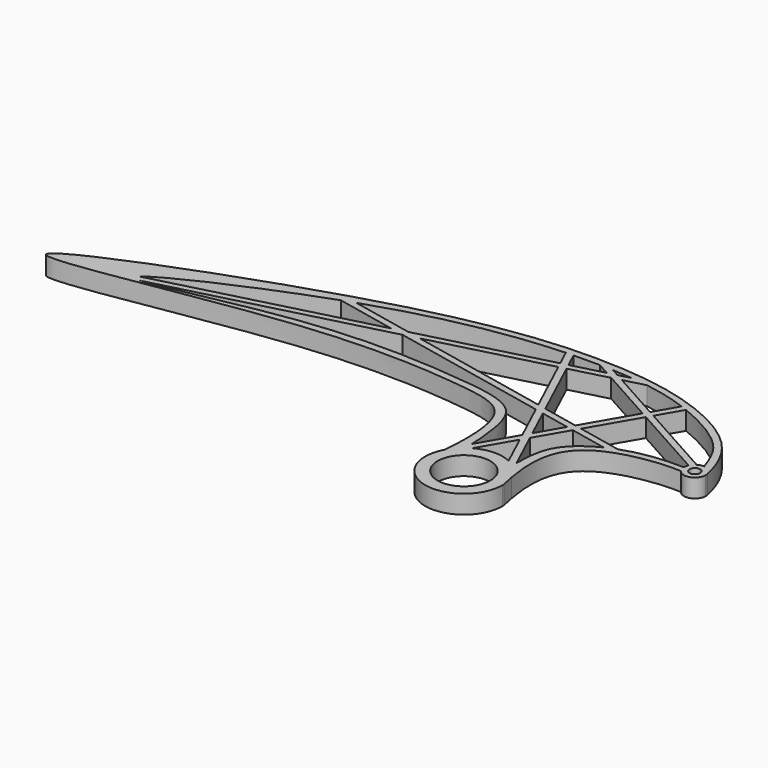
from build123d import *

# Parameters (mm, degrees)
F0_R     = 2.8569030584
F0_R_2   = 0.5687620191
F1_DEPTH = 2


with BuildPart() as f1:
    # F0 (on Top) → F1 (new body)
    with BuildSketch(Plane.XY):
        with BuildLine():
            ThreePointArc((18.6143453266, -6.9022281795), (21.2623513874, -12.9745118473), (26.4929594828, -8.9093791321))
            ThreePointArc((26.4929594828, -8.9093791321), (26.4921452233, -8.8267296466), (26.4897027608, -8.7441122463))
            add(Edge.make_bspline(
                [(26.4897027608, -8.7441122463), (26.3808069457, -8.2779284114), (26.2832084192, -7.8190455027), (26.19998991, -7.3691939883)],
                knots=[0, 0, 0, 0, 0.0629366571, 0.0629366571, 0.0629366571, 0.0629366571], degree=3))
            ThreePointArc((26.19998991, -7.3691939883), (25.6624241737, -6.4037126078), (24.8913964685, -5.6121019113))
            ThreePointArc((24.8913964685, -5.6121019113), (24.5107445609, -5.3454603018), (24.1029334844, -5.1225617856))
            ThreePointArc((24.1029334844, -5.1225617856), (22.1699046652, -4.7163574074), (20.2652718009, -5.2397846378))
            ThreePointArc((20.2652718009, -5.2397846378), (19.9718559358, -5.4183947487), (19.6940368733, -5.6204120999))
            ThreePointArc((19.6940368733, -5.6204120999), (19.0895268698, -6.2068525575), (18.6143453266, -6.9022281795))
        make_face()
        with Locations((22.2979821265, -8.9093791321)):
            Circle(F0_R, mode=Mode.SUBTRACT)
        with BuildLine():
            add(Edge.make_bspline(
                [(18.6143453266, -6.9022281795), (18.7121831157, -5.6519642111), (18.8979663666, -3.0751767638), (18.0521238103, 2.3080731901), (10.6753603097, 3.40769663), (-4.5239997149, 4.4290592775), (-45.1224210105, -4.4600882211), (0.9257955515, 13.3206958024), (18.8373683498, 14.6388730283), (28.7263227344, 13.195610608), (36.1515053478, 9.6372506878), (38.2203703609, 5.8728841517), (38.7144933658, 3.5537192718)],
                knots=[0, 0, 0, 0, 0.0578860731, 0.1203493189, 0.1908257785, 0.3170047365, 0.4585873736, 0.6204050209, 0.7563034386, 0.8444489417, 0.9255451565, 0.9982830918, 0.9982830918, 0.9982830918, 0.9982830918], degree=3))
            ThreePointArc((18.6143453266, -6.9022281795), (19.0895268698, -6.2068525575), (19.6940368733, -5.6204120999))
            add(Edge.make_bspline(
                [(19.6940368733, -5.6204120999), (19.7294126967, -5.2736396873), (19.7463495774, -4.9668373505), (19.7494853041, -4.6782903931)],
                knots=[0, 0, 0, 0, 0.0160893834, 0.0160893834, 0.0160893834, 0.0160893834], degree=3))
            add(Edge.make_bspline(
                [(19.7494853041, -4.6782903931), (19.7568415573, -4.0013741193), (19.5650467233, -2.3896691142), (19.0069317431, 2.9159053592), (11.1000637201, 4.2147569379), (-3.6817146158, 5.1232951288), (-18.6657590106, 1.3095300514), (-20.8970234036, 1.144973392)],
                knots=[0.0160893834, 0.0160893834, 0.0160893834, 0.0160893834, 0.0538342467, 0.1216211169, 0.2016167055, 0.3374433435, 0.4368786852, 0.4368786852, 0.4368786852, 0.4368786852], degree=3))
            add(Edge.make_bspline(
                [(-20.8970234036, 1.144973392), (-21.4080348071, 1.1072860924), (-21.9060180106, 1.171631934), (-21.6308491069, 1.5276157978), (-21.4077144328, 1.7122718479)],
                knots=[0.4368786852, 0.4368786852, 0.4368786852, 0.4368786852, 0.4596516895, 0.4752092971, 0.4752092971, 0.4752092971, 0.4752092971], degree=3))
            add(Edge.make_bspline(
                [(-21.4077144328, 1.7122718479), (-19.809888409, 3.0345595806), (-12.4972485391, 6.4166302378), (-5.314808763, 8.967111988)],
                knots=[0.4752092971, 0.4752092971, 0.4752092971, 0.4752092971, 0.58661444, 0.58661444, 0.58661444, 0.58661444], degree=3))
            add(Edge.make_bspline(
                [(-5.314808763, 8.967111988), (-4.883196395, 9.1203773828), (-4.4520541971, 9.2706397974), (-4.0226505547, 9.4172717956)],
                knots=[0.58661444, 0.58661444, 0.58661444, 0.58661444, 0.5933090785, 0.5933090785, 0.5933090785, 0.5933090785], degree=3))
            add(Edge.make_bspline(
                [(-4.0226505547, 9.4172717956), (-3.0974153373, 9.7332194853), (4.6848771922, 12.2710727969), (10.972477505, 13.1434869265), (15.5230635358, 13.3419158257)],
                knots=[0.5933090785, 0.5933090785, 0.5933090785, 0.5933090785, 0.6077340033, 0.7157070746, 0.7157070746, 0.7157070746, 0.7157070746], degree=3))
            add(Edge.make_bspline(
                [(15.5230635358, 13.3419158257), (15.798374902, 13.3539208139), (16.0700406201, 13.3638351671), (16.338097703, 13.3718194012)],
                knots=[0.7157070746, 0.7157070746, 0.7157070746, 0.7157070746, 0.7222394671, 0.7222394671, 0.7222394671, 0.7222394671], degree=3))
            add(Edge.make_bspline(
                [(16.338097703, 13.3718194012), (17.3330718747, 13.4014552784), (18.2783282344, 13.404499025), (19.1757595971, 13.3891592895)],
                knots=[0.7222394671, 0.7222394671, 0.7222394671, 0.7222394671, 0.7464863986, 0.7464863986, 0.7464863986, 0.7464863986], degree=3))
            add(Edge.make_bspline(
                [(19.1757595971, 13.3891592895), (19.3952832417, 13.3854069862), (19.8941255144, 13.3742350784), (20.3779449816, 13.3578689943), (20.6472598116, 13.3467602351)],
                knots=[0.7464863986, 0.7464863986, 0.7464863986, 0.7464863986, 0.7524175205, 0.7601422048, 0.7601422048, 0.7601422048, 0.7601422048], degree=3))
            add(Edge.make_bspline(
                [(20.6472598116, 13.3467602351), (21.3824514921, 13.3164348819), (22.0850961027, 13.2723159936), (22.7641356867, 13.2105606533)],
                knots=[0.7601422048, 0.7601422048, 0.7601422048, 0.7601422048, 0.7812295083, 0.7812295083, 0.7812295083, 0.7812295083], degree=3))
            add(Edge.make_bspline(
                [(22.7641356867, 13.2105606533), (23.3956405969, 13.1531283598), (24.0067296425, 13.0804423909), (24.6045953536, 12.9894116975)],
                knots=[0.7812295083, 0.7812295083, 0.7812295083, 0.7812295083, 0.8008406416, 0.8008406416, 0.8008406416, 0.8008406416], degree=3))
            add(Edge.make_bspline(
                [(24.6045953536, 12.9894116975), (25.9703937056, 12.7814560164), (27.5054305947, 12.4219692547), (29.0639236491, 11.8767009203), (29.3053994879, 11.7879962218)],
                knots=[0.8008406416, 0.8008406416, 0.8008406416, 0.8008406416, 0.8456414271, 0.853872283, 0.853872283, 0.853872283, 0.853872283], degree=3))
            add(Edge.make_bspline(
                [(29.3053994879, 11.7879962218), (29.5354743503, 11.7034796035), (29.7651748108, 11.6152632358), (29.9936554206, 11.5236929218)],
                knots=[0.853872283, 0.853872283, 0.853872283, 0.853872283, 0.8617145294, 0.8617145294, 0.8617145294, 0.8617145294], degree=3))
            add(Edge.make_bspline(
                [(29.9936554206, 11.5236929218), (32.0240140196, 10.7099670895), (35.8617576541, 8.5697192395), (36.9841513063, 6.3420919269), (37.6515627816, 4.4083440595)],
                knots=[0.8617145294, 0.8617145294, 0.8617145294, 0.8617145294, 0.9314034739, 1, 1, 1, 1], degree=3))
            ThreePointArc((37.6515627816, 4.4083440595), (38.3193913399, 4.1506320427), (38.7144933658, 3.5537192718))
        make_face()
        with BuildLine():
            add(Edge.make_bspline(
                [(38.7144933658, 3.5537192718), (38.7261566587, 3.4989776405), (38.7375502322, 3.443935568), (38.7486755157, 3.3885903794)],
                knots=[0.9982830918, 0.9982830918, 0.9982830918, 0.9982830918, 1, 1, 1, 1], degree=3))
            ThreePointArc((38.7144933658, 3.5537192718), (38.3193913399, 4.1506320427), (37.6515627816, 4.4083440595))
            ThreePointArc((37.6515627816, 4.4083440595), (37.2987617582, 4.3759171964), (36.9715830014, 4.2399976441))
            ThreePointArc((36.9715830014, 4.2399976441), (36.7011555962, 4.0145872003), (36.5094670744, 3.7192969019))
            ThreePointArc((36.5094670744, 3.7192969019), (36.4285469243, 3.4703739206), (36.4046261669, 3.2097237362))
            ThreePointArc((36.4046261669, 3.2097237362), (36.4708755476, 2.8431002419), (36.6483659594, 2.5155351021))
            ThreePointArc((36.6483659594, 2.5155351021), (37.9606538319, 2.1184879035), (38.7589857096, 3.2331233378))
            ThreePointArc((38.7589857096, 3.2331233378), (38.7564053333, 3.3110276078), (38.7486755157, 3.3885903794))
        make_face()
        with Locations((37.5816896558, 3.2331233378)):
            Circle(F0_R_2, mode=Mode.SUBTRACT)
        with BuildLine():
            ThreePointArc((24.8913964685, -5.6121019113), (25.6624241737, -6.4037126078), (26.19998991, -7.3691939883))
            add(Edge.make_bspline(
                [(26.19998991, -7.3691939883), (25.6353184944, -4.3167685824), (25.8490612072, 1.4686443008), (33.8876455579, 2.6489840198), (36.6483659594, 2.5155351021)],
                knots=[0.0629366571, 0.0629366571, 0.0629366571, 0.0629366571, 0.4899874614, 1, 1, 1, 1], degree=3))
            ThreePointArc((36.6483659594, 2.5155351021), (36.4708755476, 2.8431002419), (36.4046261669, 3.2097237362))
            add(Edge.make_bspline(
                [(29.9917272827, 2.291704047), (31.6817230026, 2.9152205), (33.8111267707, 3.2897124254), (36.4046261669, 3.2097237362)],
                knots=[0.6856732256, 0.6856732256, 0.6856732256, 0.6856732256, 1, 1, 1, 1], degree=3))
            add(Edge.make_bspline(
                [(28.86096562, 1.8077337718), (29.2132904964, 1.9812830351), (29.5901006, 2.1435256572), (29.9917272827, 2.291704047)],
                knots=[0.6109736165, 0.6109736165, 0.6109736165, 0.6109736165, 0.6856732256, 0.6856732256, 0.6856732256, 0.6856732256], degree=3))
            add(Edge.make_bspline(
                [(24.8814697385, -5.0141121595), (24.8706036434, -1.9969336829), (25.7527692295, -0.1242736331), (28.0879125784, 1.4269409443), (28.86096562, 1.8077337718)],
                knots=[0.026801104, 0.026801104, 0.026801104, 0.026801104, 0.4470715934, 0.6109736165, 0.6109736165, 0.6109736165, 0.6109736165], degree=3))
            add(Edge.make_bspline(
                [(24.8913964685, -5.6121019113), (24.8854807984, -5.4057208357), (24.8821626812, -5.2065208967), (24.8814697385, -5.0141121595)],
                knots=[0, 0, 0, 0, 0.026801104, 0.026801104, 0.026801104, 0.026801104], degree=3))
        make_face()
        with BuildLine():
            add(Edge.make_bspline(
                [(19.6940368733, -5.6204120999), (19.7294126967, -5.2736396873), (19.7463495774, -4.9668373505), (19.7494853041, -4.6782903931)],
                knots=[0, 0, 0, 0, 0.0160893834, 0.0160893834, 0.0160893834, 0.0160893834], degree=3))
            ThreePointArc((19.6940368733, -5.6204120999), (19.9718559358, -5.4183947487), (20.2652718009, -5.2397846378))
            Line((20.2652718009, -5.2397846378), (22.4267325344, -1.5152606144))
            Line((22.4267325344, -1.5152606144), (22.0524900201, -0.7098646623))
            Line((22.0524900201, -0.7098646623), (19.7494853041, -4.6782903931))
        make_face()
        with BuildLine():
            ThreePointArc((24.1029334844, -5.1225617856), (24.5107445609, -5.3454603018), (24.8913964685, -5.6121019113))
            add(Edge.make_bspline(
                [(24.8913964685, -5.6121019113), (24.8854807984, -5.4057208357), (24.8821626812, -5.2065208967), (24.8814697385, -5.0141121595)],
                knots=[0, 0, 0, 0, 0.026801104, 0.026801104, 0.026801104, 0.026801104], degree=3))
            Line((24.8814697385, -5.0141121595), (22.8870711465, -0.7220275043))
            Line((22.8870711465, -0.7220275043), (22.4267325344, -1.5152606144))
            Line((22.4267325344, -1.5152606144), (24.1029334844, -5.1225617856))
        make_face()
        Polygon((22.0524900201, -0.7098646623), (22.4267325344, -1.5152606144), (22.8870711465, -0.7220275043), (22.5128286322, 0.0833684478), align=None)
        Polygon((22.5128286322, 0.0833684478), (22.8870711465, -0.7220275043), (24.8435749107, 2.6493246369), (24.0931642157, 2.8065258732), align=None)
        with BuildLine():
            ThreePointArc((36.5094670744, 3.7192969019), (36.7011555962, 4.0145872003), (36.9715830014, 4.2399976441))
            Line((36.9715830014, 4.2399976441), (28.5070563563, 8.9620577079))
            Line((28.5070563563, 8.9620577079), (28.1657615677, 8.3739551254))
            Line((28.1657615677, 8.3739551254), (36.5094670744, 3.7192969019))
        make_face()
        Polygon((28.1657615677, 8.3739551254), (28.5070563563, 8.9620577079), (27.8712552701, 9.3167486485), (27.5299604815, 8.728646066), align=None)
        with BuildLine():
            Line((28.5070563563, 8.9620577079), (29.9936554206, 11.5236929218))
            add(Edge.make_bspline(
                [(29.3053994879, 11.7879962218), (29.5354743503, 11.7034796035), (29.7651748108, 11.6152632358), (29.9936554206, 11.5236929218)],
                knots=[0.853872283, 0.853872283, 0.853872283, 0.853872283, 0.8617145294, 0.8617145294, 0.8617145294, 0.8617145294], degree=3))
            Line((29.3053994879, 11.7879962218), (27.8712552701, 9.3167486485))
            Line((27.8712552701, 9.3167486485), (28.5070563563, 8.9620577079))
        make_face()
        Polygon((27.5299604815, 8.728646066), (27.8712552701, 9.3167486485), (22.3430813594, 12.400721367), (21.3915721292, 12.1530358411), align=None)
        Polygon((20.0222623693, 3.6593266224), (22.0524900201, -0.7098646623), (22.5128286322, 0.0833684478), (20.940583045, 3.466950439), align=None)
        Polygon((17.3886146699, 11.111033733), (21.3915721292, 12.1530358411), (20.5357192632, 12.6304858874), (17.0983469192, 11.7357101459), align=None)
        with BuildLine():
            Line((22.3430813594, 12.400721367), (24.6045953536, 12.9894116975))
            add(Edge.make_bspline(
                [(22.7641356867, 13.2105606533), (23.3956405969, 13.1531283598), (24.0067296425, 13.0804423909), (24.6045953536, 12.9894116975)],
                knots=[0.7812295083, 0.7812295083, 0.7812295083, 0.7812295083, 0.8008406416, 0.8008406416, 0.8008406416, 0.8008406416], degree=3))
            Line((22.7641356867, 13.2105606533), (21.4872284934, 12.8781714134))
            Line((21.4872284934, 12.8781714134), (22.3430813594, 12.400721367))
        make_face()
        Polygon((21.3915721292, 12.1530358411), (22.3430813594, 12.400721367), (21.4872284934, 12.8781714134), (20.5357192632, 12.6304858874), align=None)
        with BuildLine():
            Line((20.5357192632, 12.6304858874), (21.4872284934, 12.8781714134))
            Line((21.4872284934, 12.8781714134), (20.6472598116, 13.3467602351))
            add(Edge.make_bspline(
                [(19.1757595971, 13.3891592895), (19.3952832417, 13.3854069862), (19.8941255144, 13.3742350784), (20.3779449816, 13.3578689943), (20.6472598116, 13.3467602351)],
                knots=[0.7464863986, 0.7464863986, 0.7464863986, 0.7464863986, 0.7524175205, 0.7601422048, 0.7601422048, 0.7601422048, 0.7601422048], degree=3))
            Line((19.1757595971, 13.3891592895), (20.5357192632, 12.6304858874))
        make_face()
        Polygon((16.3588632726, 11.5432165892), (16.6491310232, 10.9185401763), (17.3886146699, 11.111033733), (17.0983469192, 11.7357101459), align=None)
        with BuildLine():
            add(Edge.make_bspline(
                [(15.5230635358, 13.3419158257), (15.798374902, 13.3539208139), (16.0700406201, 13.3638351671), (16.338097703, 13.3718194012)],
                knots=[0.7157070746, 0.7157070746, 0.7157070746, 0.7157070746, 0.7222394671, 0.7222394671, 0.7222394671, 0.7222394671], degree=3))
            Line((15.5230635358, 13.3419158257), (16.3588632726, 11.5432165892))
            Line((16.3588632726, 11.5432165892), (17.0983469192, 11.7357101459))
            Line((17.0983469192, 11.7357101459), (16.338097703, 13.3718194012))
        make_face()
        with BuildLine():
            add(Edge.make_bspline(
                [(-20.8970234036, 1.144973392), (-21.4080348071, 1.1072860924), (-21.9060180106, 1.171631934), (-21.6308491069, 1.5276157978), (-21.4077144328, 1.7122718479)],
                knots=[0.4368786852, 0.4368786852, 0.4368786852, 0.4368786852, 0.4596516895, 0.4752092971, 0.4752092971, 0.4752092971, 0.4752092971], degree=3))
            Line((-20.8970234036, 1.144973392), (2.7013737661, 7.287826482))
            Line((2.7013737661, 7.287826482), (1.2108609879, 7.600069435))
            Line((1.2108609879, 7.600069435), (-21.4077144328, 1.7122718479))
        make_face()
        Polygon((4.2357665784, 7.687241305), (2.7013737661, 7.287826482), (20.0222623693, 3.6593266224), (19.6511841811, 4.4579127244), align=None)
        Polygon((2.7452538002, 7.999484258), (4.2357665784, 7.687241305), (16.6491310232, 10.9185401763), (16.3588632726, 11.5432165892), align=None)
        with BuildLine():
            add(Edge.make_bspline(
                [(-5.314808763, 8.967111988), (-4.883196395, 9.1203773828), (-4.4520541971, 9.2706397974), (-4.0226505547, 9.4172717956)],
                knots=[0.58661444, 0.58661444, 0.58661444, 0.58661444, 0.5933090785, 0.5933090785, 0.5933090785, 0.5933090785], degree=3))
            Line((-5.314808763, 8.967111988), (1.2108609879, 7.600069435))
            Line((1.2108609879, 7.600069435), (2.7452538002, 7.999484258))
            Line((2.7452538002, 7.999484258), (-4.0226505547, 9.4172717956))
        make_face()
        Polygon((16.6491310232, 10.9185401763), (19.6511841811, 4.4579127244), (20.5695048568, 4.265536541), (17.3886146699, 11.111033733), align=None)
        Polygon((25.2165624833, 3.2920386835), (28.1657615677, 8.3739551254), (27.5299604815, 8.728646066), (24.4661517883, 3.4492399198), align=None)
        with BuildLine():
            Line((24.8435749107, 2.6493246369), (28.86096562, 1.8077337718))
            add(Edge.make_bspline(
                [(28.86096562, 1.8077337718), (29.2132904964, 1.9812830351), (29.5901006, 2.1435256572), (29.9917272827, 2.291704047)],
                knots=[0.6109736165, 0.6109736165, 0.6109736165, 0.6109736165, 0.6856732256, 0.6856732256, 0.6856732256, 0.6856732256], degree=3))
            Line((29.9917272827, 2.291704047), (25.2165624833, 3.2920386835))
            Line((25.2165624833, 3.2920386835), (24.8435749107, 2.6493246369))
        make_face()
        Polygon((20.940583045, 3.466950439), (24.0931642157, 2.8065258732), (24.4661517883, 3.4492399198), (20.5695048568, 4.265536541), align=None)
        Polygon((24.0931642157, 2.8065258732), (24.8435749107, 2.6493246369), (25.2165624833, 3.2920386835), (24.4661517883, 3.4492399198), align=None)
        Polygon((19.6511841811, 4.4579127244), (20.0222623693, 3.6593266224), (20.940583045, 3.466950439), (20.5695048568, 4.265536541), align=None)
        Polygon((1.2108609879, 7.600069435), (2.7013737661, 7.287826482), (4.2357665784, 7.687241305), (2.7452538002, 7.999484258), align=None)
    extrude(amount=F1_DEPTH)


solid = f1.part
